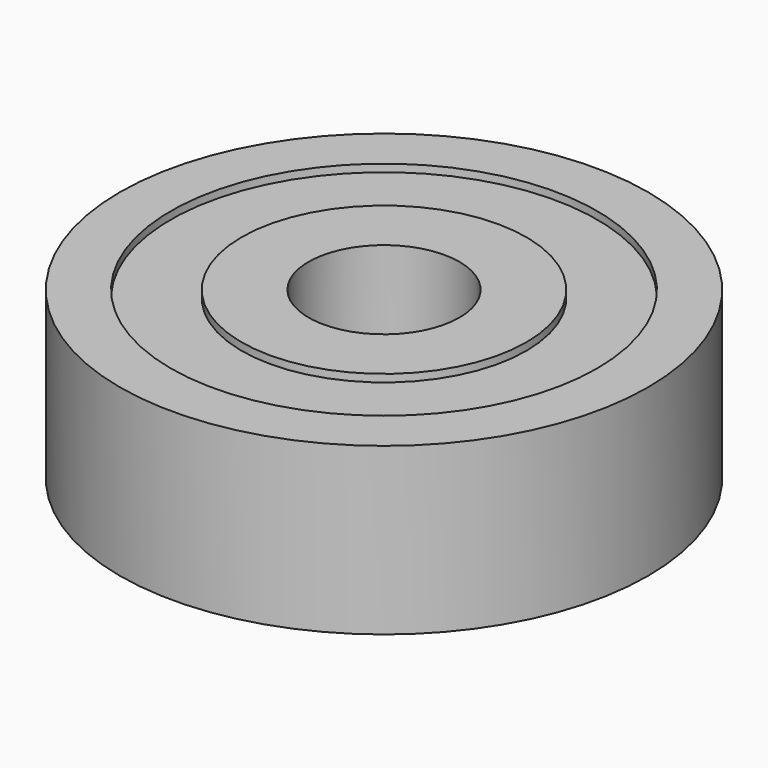
from build123d import *

# Parameters (mm, degrees)
F0_R     = 9.4326970336
F0_R_2   = 5
F1_DEPTH = 11
F0_R_3   = 17.5
F0_R_4   = 14.1231381544
F2_START = 0.5
F2_DEPTH = 10


with BuildPart() as f1:
    # F0 (on Top) → F1 (new body)
    with BuildSketch(Plane.XY):
        Circle(F0_R)
        Circle(F0_R_2, mode=Mode.SUBTRACT)
    extrude(amount=F1_DEPTH)



with BuildPart() as f1b:
    # F0 (on Top) → F1, piece 2 (new body)
    with BuildSketch(Plane.XY):
        Circle(F0_R_3)
        Circle(F0_R_4, mode=Mode.SUBTRACT)
    extrude(amount=F1_DEPTH)


with BuildPart() as f1_1:
    add(f1.part)

    add(f1b.part)  # F2 merges F1b
    # F0 (on Top) → F2 (join)
    with BuildSketch(Plane.XY.offset(F2_START)):
        Circle(F0_R_4)
        Circle(F0_R, mode=Mode.SUBTRACT)
    extrude(amount=F2_DEPTH)


solid = f1_1.part
